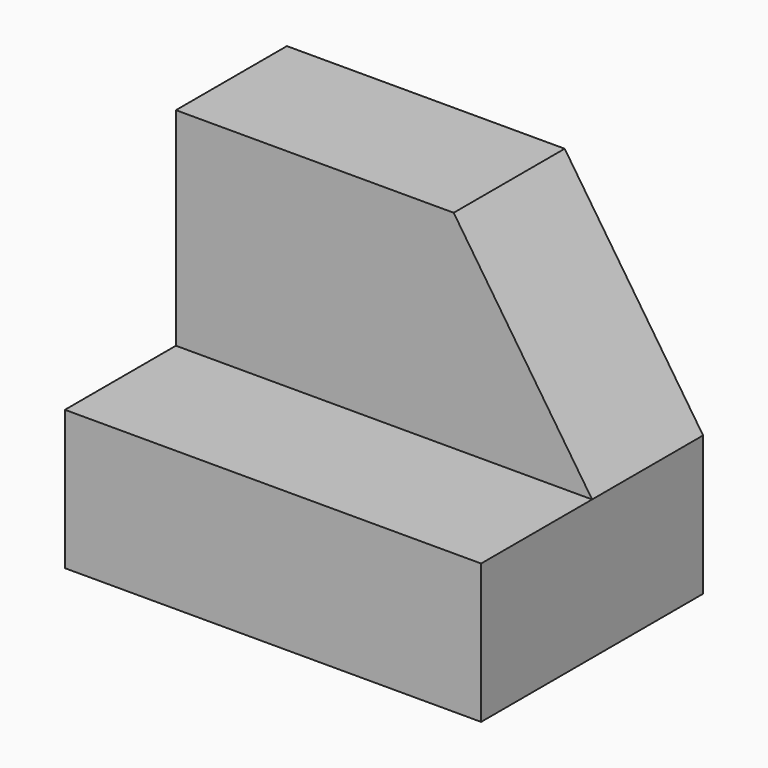
from build123d import *

# Parameters (mm, degrees)
F2_DEPTH = 25.4
F0_W     = 38.1
F0_H     = 31.75
F3_DEPTH = 25.4
F4_W     = 38.1
F4_H     = 18.9845859185
F5_DEPTH = 12.7
F7_DEPTH = 12.701


with BuildPart() as f2:
    # F1 (on Front) → F2 (new body)
    with BuildSketch(Plane.XZ):
        Polygon((33.8248718529, 28.3878277987), (0, 28.3878277987), (0, 0), (34.039542079, 0), align=None)
    extrude(amount=F2_DEPTH)

    # F0 (on Front) → F3 (join)
    with BuildSketch(Plane.XZ):
        with Locations((19.05, 15.875)):
            Rectangle(F0_W, F0_H)
    extrude(amount=F3_DEPTH)

    # F4 (on face) → F5 (cut)
    with BuildSketch(Plane.XZ.offset(25.4)):
        with Locations((19.05, 22.2577070408)):
            Rectangle(F4_W, F4_H)
    extrude(amount=-F5_DEPTH, mode=Mode.SUBTRACT)

    # F6 (on face) → F7 (cut, through all)
    with BuildSketch(Plane.XZ.offset(12.7)):
        Polygon((38.1, 31.75), (25.4303161055, 31.75), (38.1, 12.7654140815), align=None)
    extrude(amount=-F7_DEPTH, mode=Mode.SUBTRACT)


solid = f2.part
